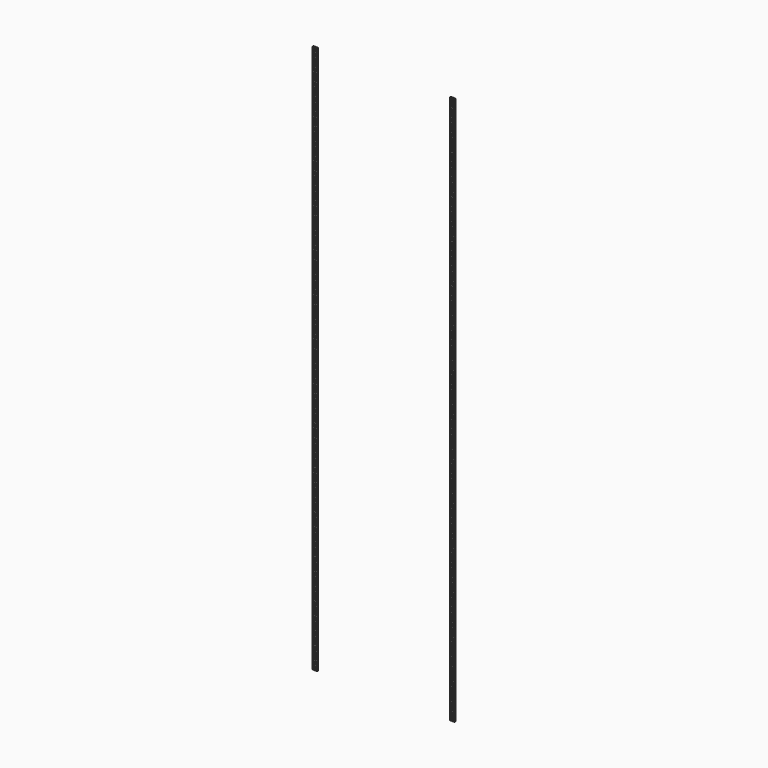
from build123d import *

# Parameters (mm, degrees)
F0_W     = 15.875
F0_H     = 933.45
F2_DEPTH = 3.175
F1_W     = 4.7625
F1_H     = 9.525
F1_W_2   = 9.525
F3_DEPTH = 12.7


with BuildPart() as f2:
    # F0 (on Front) → F2 (new body)
    with BuildSketch(Plane.XZ):
        with Locations((-233.3625, 466.725)):
            Rectangle(F0_W, F0_H)
        with Locations((-233.3625, -466.725)):
            Rectangle(F0_W, F0_H)
    extrude(amount=-F2_DEPTH)

    # F1 (on Front) → F3 (cut, symmetric)
    with BuildSketch(Plane.XZ):
        Polygon((-228.6, -1.5875), (-233.3625, -1.5875), (-238.125, -1.5875), (-238.125, -11.1125), (-228.6, -11.1125), align=None)
        with Locations((-235.74375, 66.675)):
            Rectangle(F1_W, F1_H)
        with Locations((-230.98125, 66.675)):
            Rectangle(F1_W, F1_H)
        with Locations((-235.74375, 50.8)):
            Rectangle(F1_W, F1_H)
        with Locations((-230.98125, 50.8)):
            Rectangle(F1_W, F1_H)
        with Locations((-235.74375, 38.1)):
            Rectangle(F1_W, F1_H)
        with Locations((-230.98125, 38.1)):
            Rectangle(F1_W, F1_H)
        with Locations((-235.74375, 22.225)):
            Rectangle(F1_W, F1_H)
        with Locations((-230.98125, 22.225)):
            Rectangle(F1_W, F1_H)
        Polygon((-233.3625, 1.5875), (-228.6, 1.5875), (-228.6, 11.1125), (-233.3625, 11.1125), (-233.3625, 6.35), align=None)
        Polygon((-238.125, 1.5875), (-233.3625, 1.5875), (-233.3625, 6.35), (-233.3625, 11.1125), (-238.125, 11.1125), align=None)
        with Locations((-233.3625, -22.225)):
            Rectangle(F1_W_2, F1_H)
        with Locations((-233.3625, -38.1)):
            Rectangle(F1_W_2, F1_H)
        with Locations((-233.3625, 82.55)):
            Rectangle(F1_W_2, F1_H)
        with Locations((-233.3625, 111.125)):
            Rectangle(F1_W_2, F1_H)
        with Locations((-233.3625, 95.25)):
            Rectangle(F1_W_2, F1_H)
        with Locations((-233.3625, 127)):
            Rectangle(F1_W_2, F1_H)
        with Locations((-233.3625, 155.575)):
            Rectangle(F1_W_2, F1_H)
        with Locations((-233.3625, 139.7)):
            Rectangle(F1_W_2, F1_H)
        with Locations((-233.3625, 171.45)):
            Rectangle(F1_W_2, F1_H)
        with Locations((-233.3625, 200.025)):
            Rectangle(F1_W_2, F1_H)
        with Locations((-233.3625, 184.15)):
            Rectangle(F1_W_2, F1_H)
        with Locations((-233.3625, 215.9)):
            Rectangle(F1_W_2, F1_H)
        with Locations((-233.3625, 244.475)):
            Rectangle(F1_W_2, F1_H)
        with Locations((-233.3625, 228.6)):
            Rectangle(F1_W_2, F1_H)
        with Locations((-233.3625, 260.35)):
            Rectangle(F1_W_2, F1_H)
        with Locations((-233.3625, 288.925)):
            Rectangle(F1_W_2, F1_H)
        with Locations((-233.3625, 273.05)):
            Rectangle(F1_W_2, F1_H)
        with Locations((-233.3625, 304.8)):
            Rectangle(F1_W_2, F1_H)
        with Locations((-233.3625, 333.375)):
            Rectangle(F1_W_2, F1_H)
        with Locations((-233.3625, 317.5)):
            Rectangle(F1_W_2, F1_H)
        with Locations((-233.3625, 349.25)):
            Rectangle(F1_W_2, F1_H)
        with Locations((-233.3625, 377.825)):
            Rectangle(F1_W_2, F1_H)
        with Locations((-233.3625, 361.95)):
            Rectangle(F1_W_2, F1_H)
        with Locations((-233.3625, 393.7)):
            Rectangle(F1_W_2, F1_H)
        with Locations((-233.3625, 422.275)):
            Rectangle(F1_W_2, F1_H)
        with Locations((-233.3625, 406.4)):
            Rectangle(F1_W_2, F1_H)
        with Locations((-233.3625, 438.15)):
            Rectangle(F1_W_2, F1_H)
        with Locations((-233.3625, 466.725)):
            Rectangle(F1_W_2, F1_H)
        with Locations((-233.3625, 450.85)):
            Rectangle(F1_W_2, F1_H)
        with Locations((-233.3625, 482.6)):
            Rectangle(F1_W_2, F1_H)
        with Locations((-233.3625, 511.175)):
            Rectangle(F1_W_2, F1_H)
        with Locations((-233.3625, 495.3)):
            Rectangle(F1_W_2, F1_H)
        with Locations((-233.3625, 527.05)):
            Rectangle(F1_W_2, F1_H)
        with Locations((-233.3625, 555.625)):
            Rectangle(F1_W_2, F1_H)
        with Locations((-233.3625, 539.75)):
            Rectangle(F1_W_2, F1_H)
        with Locations((-233.3625, 571.5)):
            Rectangle(F1_W_2, F1_H)
        with Locations((-233.3625, 600.075)):
            Rectangle(F1_W_2, F1_H)
        with Locations((-233.3625, 584.2)):
            Rectangle(F1_W_2, F1_H)
        with Locations((-233.3625, 615.95)):
            Rectangle(F1_W_2, F1_H)
        with Locations((-233.3625, 644.525)):
            Rectangle(F1_W_2, F1_H)
        with Locations((-233.3625, 628.65)):
            Rectangle(F1_W_2, F1_H)
        with Locations((-233.3625, 660.4)):
            Rectangle(F1_W_2, F1_H)
        with Locations((-233.3625, 688.975)):
            Rectangle(F1_W_2, F1_H)
        with Locations((-233.3625, 673.1)):
            Rectangle(F1_W_2, F1_H)
        with Locations((-233.3625, 704.85)):
            Rectangle(F1_W_2, F1_H)
        with Locations((-233.3625, 733.425)):
            Rectangle(F1_W_2, F1_H)
        with Locations((-233.3625, 717.55)):
            Rectangle(F1_W_2, F1_H)
        with Locations((-233.3625, 749.3)):
            Rectangle(F1_W_2, F1_H)
        with Locations((-233.3625, 777.875)):
            Rectangle(F1_W_2, F1_H)
        with Locations((-233.3625, 762)):
            Rectangle(F1_W_2, F1_H)
        with Locations((-233.3625, 793.75)):
            Rectangle(F1_W_2, F1_H)
        with Locations((-233.3625, 822.325)):
            Rectangle(F1_W_2, F1_H)
        with Locations((-233.3625, 806.45)):
            Rectangle(F1_W_2, F1_H)
        with Locations((-233.3625, 838.2)):
            Rectangle(F1_W_2, F1_H)
        with Locations((-233.3625, 866.775)):
            Rectangle(F1_W_2, F1_H)
        with Locations((-233.3625, 850.9)):
            Rectangle(F1_W_2, F1_H)
        with Locations((-233.3625, 882.65)):
            Rectangle(F1_W_2, F1_H)
        with Locations((-233.3625, 911.225)):
            Rectangle(F1_W_2, F1_H)
        with Locations((-233.3625, 895.35)):
            Rectangle(F1_W_2, F1_H)
        with Locations((-233.3625, 927.1)):
            Rectangle(F1_W_2, F1_H)
        with Locations((-233.3625, -50.8)):
            Rectangle(F1_W_2, F1_H)
        with Locations((-233.3625, -66.675)):
            Rectangle(F1_W_2, F1_H)
        with Locations((-233.3625, -82.55)):
            Rectangle(F1_W_2, F1_H)
        with Locations((-233.3625, -95.25)):
            Rectangle(F1_W_2, F1_H)
        with Locations((-233.3625, -111.125)):
            Rectangle(F1_W_2, F1_H)
        with Locations((-233.3625, -127)):
            Rectangle(F1_W_2, F1_H)
        with Locations((-233.3625, -139.7)):
            Rectangle(F1_W_2, F1_H)
        with Locations((-233.3625, -155.575)):
            Rectangle(F1_W_2, F1_H)
        with Locations((-233.3625, -171.45)):
            Rectangle(F1_W_2, F1_H)
        with Locations((-233.3625, -184.15)):
            Rectangle(F1_W_2, F1_H)
        with Locations((-233.3625, -200.025)):
            Rectangle(F1_W_2, F1_H)
        with Locations((-233.3625, -215.9)):
            Rectangle(F1_W_2, F1_H)
        with Locations((-233.3625, -228.6)):
            Rectangle(F1_W_2, F1_H)
        with Locations((-233.3625, -244.475)):
            Rectangle(F1_W_2, F1_H)
        with Locations((-233.3625, -260.35)):
            Rectangle(F1_W_2, F1_H)
        with Locations((-233.3625, -273.05)):
            Rectangle(F1_W_2, F1_H)
        with Locations((-233.3625, -288.925)):
            Rectangle(F1_W_2, F1_H)
        with Locations((-233.3625, -304.8)):
            Rectangle(F1_W_2, F1_H)
        with Locations((-233.3625, -317.5)):
            Rectangle(F1_W_2, F1_H)
        with Locations((-233.3625, -333.375)):
            Rectangle(F1_W_2, F1_H)
        with Locations((-233.3625, -349.25)):
            Rectangle(F1_W_2, F1_H)
        with Locations((-233.3625, -361.95)):
            Rectangle(F1_W_2, F1_H)
        with Locations((-233.3625, -377.825)):
            Rectangle(F1_W_2, F1_H)
        with Locations((-233.3625, -393.7)):
            Rectangle(F1_W_2, F1_H)
        with Locations((-233.3625, -406.4)):
            Rectangle(F1_W_2, F1_H)
        with Locations((-233.3625, -422.275)):
            Rectangle(F1_W_2, F1_H)
        with Locations((-233.3625, -438.15)):
            Rectangle(F1_W_2, F1_H)
        with Locations((-233.3625, -450.85)):
            Rectangle(F1_W_2, F1_H)
        with Locations((-233.3625, -466.725)):
            Rectangle(F1_W_2, F1_H)
        with Locations((-233.3625, -482.6)):
            Rectangle(F1_W_2, F1_H)
        with Locations((-233.3625, -495.3)):
            Rectangle(F1_W_2, F1_H)
        with Locations((-233.3625, -511.175)):
            Rectangle(F1_W_2, F1_H)
        with Locations((-233.3625, -527.05)):
            Rectangle(F1_W_2, F1_H)
        with Locations((-233.3625, -539.75)):
            Rectangle(F1_W_2, F1_H)
        with Locations((-233.3625, -555.625)):
            Rectangle(F1_W_2, F1_H)
        with Locations((-233.3625, -571.5)):
            Rectangle(F1_W_2, F1_H)
        with Locations((-233.3625, -584.2)):
            Rectangle(F1_W_2, F1_H)
        with Locations((-233.3625, -600.075)):
            Rectangle(F1_W_2, F1_H)
        with Locations((-233.3625, -615.95)):
            Rectangle(F1_W_2, F1_H)
        with Locations((-233.3625, -628.65)):
            Rectangle(F1_W_2, F1_H)
        with Locations((-233.3625, -644.525)):
            Rectangle(F1_W_2, F1_H)
        with Locations((-233.3625, -660.4)):
            Rectangle(F1_W_2, F1_H)
        with Locations((-233.3625, -673.1)):
            Rectangle(F1_W_2, F1_H)
        with Locations((-233.3625, -688.975)):
            Rectangle(F1_W_2, F1_H)
        with Locations((-233.3625, -704.85)):
            Rectangle(F1_W_2, F1_H)
        with Locations((-233.3625, -717.55)):
            Rectangle(F1_W_2, F1_H)
        with Locations((-233.3625, -733.425)):
            Rectangle(F1_W_2, F1_H)
        with Locations((-233.3625, -749.3)):
            Rectangle(F1_W_2, F1_H)
        with Locations((-233.3625, -762)):
            Rectangle(F1_W_2, F1_H)
        with Locations((-233.3625, -777.875)):
            Rectangle(F1_W_2, F1_H)
        with Locations((-233.3625, -793.75)):
            Rectangle(F1_W_2, F1_H)
        with Locations((-233.3625, -806.45)):
            Rectangle(F1_W_2, F1_H)
        with Locations((-233.3625, -822.325)):
            Rectangle(F1_W_2, F1_H)
        with Locations((-233.3625, -838.2)):
            Rectangle(F1_W_2, F1_H)
        with Locations((-233.3625, -850.9)):
            Rectangle(F1_W_2, F1_H)
        with Locations((-233.3625, -866.775)):
            Rectangle(F1_W_2, F1_H)
        with Locations((-233.3625, -882.65)):
            Rectangle(F1_W_2, F1_H)
        with Locations((-233.3625, -895.35)):
            Rectangle(F1_W_2, F1_H)
        with Locations((-233.3625, -911.225)):
            Rectangle(F1_W_2, F1_H)
        with Locations((-233.3625, -927.1)):
            Rectangle(F1_W_2, F1_H)
    extrude(amount=F3_DEPTH, both=True, mode=Mode.SUBTRACT)


with BuildPart() as f4_1:
    # F4: instance of F2
    add(f2.part.mirror(Plane.YZ))


solid = Compound([f2.part, f4_1.part])
